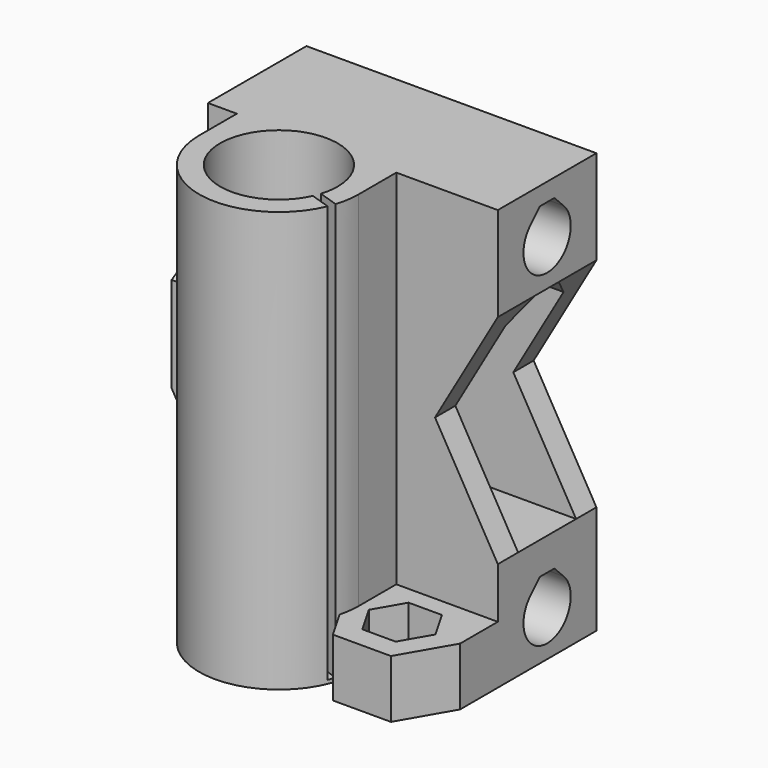
from build123d import *

# Parameters (mm, degrees)
SKETCH011_W     = 40
SKETCH011_H     = 30
PAD003_DEPTH    = 10
CHAMFER_SIZE    = 3
PAD_DEPTH       = 17
POCKET_DEPTH    = 5
POCKET001_DEPTH = 4
POCKET002_DEPTH = 40.001
POCKET003_DEPTH = 40.001
PAD001_DEPTH    = 58
PAD002_DEPTH    = 8
POCKET004_DEPTH = 5
SKETCH010_R     = 3.1
POCKET005_DEPTH = 8.001
SKETCH005_R     = 3.4
POCKET006_DEPTH = 41.001
SKETCH012_R     = 8.1
POCKET007_DEPTH = 58.001
POCKET008_DEPTH = 57.5


with BuildPart() as inner_part:
    # Sketch011 → Pad003 (new body)
    with BuildSketch(Plane.XZ.offset(3.5)):
        with Locations((25, 30)):
            Rectangle(SKETCH011_W, SKETCH011_H)
    extrude(amount=PAD003_DEPTH)

    # Chamfer
    chamfer_edges = [inner_part.edges().sort_by_distance(p)[0] for p in [
        (25, -3.5, 45),
        (25, -13.5, 45),
    ]]
    chamfer(chamfer_edges, length=CHAMFER_SIZE)


with BuildPart() as rod_guide_slot:
    # Sketch → Pad (new body)
    with BuildSketch(Plane.XZ):
        Polygon((0, 0), (0, 13.079746), (-5, 21.74), (-5, 39.8), (0, 39.8), (0, 58), (40, 58), (40, 45), (31.339746, 30), (40, 15), (40, 0), align=None)
    extrude(amount=PAD_DEPTH)

    # Sketch001 → Pocket (cut)
    with BuildSketch(Plane(origin=(-5, 0, 0), x_dir=(0, 0, -1), z_dir=(-1, 0, 0))):
        Polygon((-34.892523, 17), (-39.8, 8.5), (-34.892523, 0), (-42.892523, 0), (-42.892523, 17), align=None)
    extrude(amount=-POCKET_DEPTH, mode=Mode.SUBTRACT)

    # Sketch002 → Pocket001 (cut)
    with BuildSketch(Plane(origin=(-5, 0, 0), x_dir=(0, 0, -1), z_dir=(-1, 0, 0))):
        Polygon((-35.89, 8.5), (-32.945, 13.60089), (-27.055, 13.60089), (-24.11, 8.5), (-27.055, 3.39911), (-32.945, 3.39911), align=None)
    extrude(amount=-POCKET001_DEPTH, mode=Mode.SUBTRACT)

    # Sketch003 → Pocket002 (cut, through all)
    with BuildSketch(Plane(origin=(0, 0, 0), x_dir=(0, 0, -1), z_dir=(-1, 0, 0))):
        with BuildLine():
            Line((-55.51292, 9.75), (-55.51292, 7.25))
            Line((-55.51292, 7.25), (-53.88146, 5.61854))
            ThreePointArc((-53.88146, 5.61854), (-46.925, 8.5), (-53.88146, 11.38146))
            Line((-55.51292, 9.75), (-53.88146, 11.38146))
        make_face()
    extrude(amount=-POCKET002_DEPTH, mode=Mode.SUBTRACT)

    # Sketch004 → Pocket003 (cut, through all)
    with BuildSketch(Plane(origin=(0, 0, 0), x_dir=(0, 0, -1), z_dir=(-1, 0, 0))):
        with BuildLine():
            Line((-10.51292, 9.75), (-10.51292, 7.25))
            Line((-10.51292, 7.25), (-8.88146, 5.61854))
            ThreePointArc((-8.88146, 5.61854), (-1.925, 8.5), (-8.88146, 11.38146))
            Line((-10.51292, 9.75), (-8.88146, 11.38146))
        make_face()
    extrude(amount=-POCKET003_DEPTH, mode=Mode.SUBTRACT)

    # Sketch006 → Pad001 (new body)
    with BuildSketch(Plane(origin=(0, 0, 0), x_dir=(1, 0, 0), z_dir=(0, 0, -1))):
        with BuildLine():
            Line((4, 23.5), (4, 17))
            Line((4, 17), (26, 17))
            Line((26, 23.5), (26, 17))
            ThreePointArc((26, 23.5), (15, 34.5), (4, 23.5))
        make_face()
    extrude(amount=-PAD001_DEPTH)

    # Sketch007 → Pad002 (new body)
    with BuildSketch(Plane(origin=(0, 0, 0), x_dir=(1, 0, 0), z_dir=(0, 0, -1))):
        Polygon((25.63, 17), (25.63, 26.32), (28, 30.43), (36, 30.43), (40, 23.5), (40, 17), align=None)
    extrude(amount=-PAD002_DEPTH)

    # Sketch009 → Pocket004 (cut)
    with BuildSketch(Plane(origin=(0, 0, 8), x_dir=(-1, 0, 0), z_dir=(0, 0, 1))):
        Polygon((-36.601482, 23.5), (-34.300741, 27.485), (-29.699259, 27.485), (-27.398518, 23.5), (-29.699259, 19.515), (-34.300741, 19.515), align=None)
    extrude(amount=-POCKET004_DEPTH, mode=Mode.SUBTRACT)

    # Sketch010 → Pocket005 (cut, through all)
    with BuildSketch(Plane(origin=(0, 0, 8), x_dir=(-1, 0, 0), z_dir=(0, 0, 1))):
        with Locations((-32, 23.5)):
            Circle(SKETCH010_R)
    extrude(amount=-POCKET005_DEPTH, mode=Mode.SUBTRACT)

    # Cut001: cut inner-part
    add(inner_part.part, mode=Mode.SUBTRACT)

    # Sketch005 → Pocket006 (cut, through all)
    with BuildSketch(Plane(origin=(-1, 0, 0), x_dir=(0, -1, 0), z_dir=(-1, 0, 0))):
        with Locations((8.5, 30)):
            Circle(SKETCH005_R)
    extrude(amount=-POCKET006_DEPTH, mode=Mode.SUBTRACT)

    # Sketch012 → Pocket007 (cut, through all)
    with BuildSketch(Plane.XY.offset(58)):
        with Locations((15, -23.5)):
            Circle(SKETCH012_R)
    extrude(amount=-POCKET007_DEPTH, mode=Mode.SUBTRACT)

    # Sketch013 → Pocket008 (cut)
    with BuildSketch(Plane.XY.offset(58)):
        Polygon((22.127646, -25.72736), (25.627646, -26.864579), (25.627646, -27.914579), (22.127646, -26.77736), align=None)
    extrude(amount=-POCKET008_DEPTH, mode=Mode.SUBTRACT)


solid = rod_guide_slot.part
